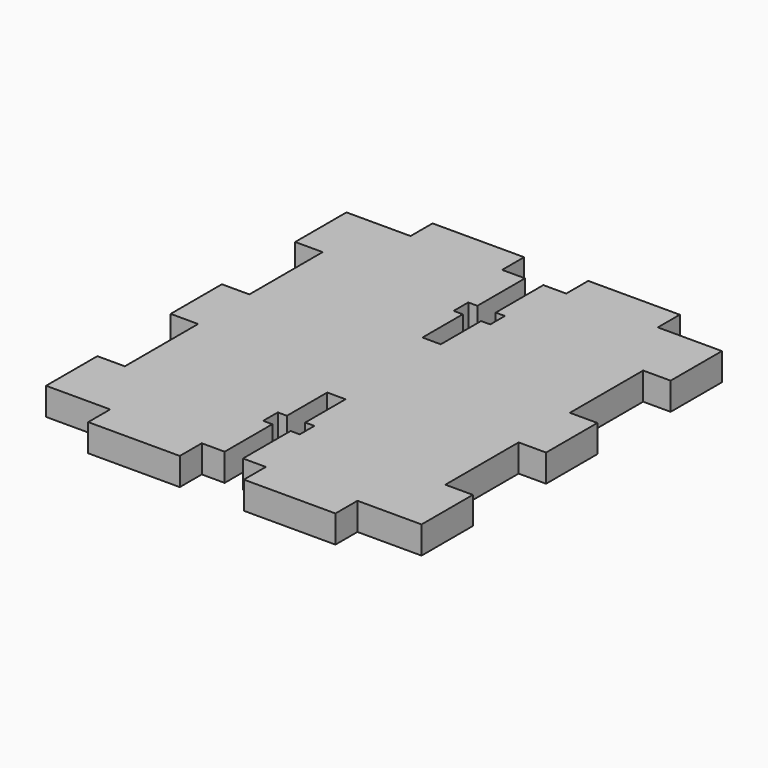
from build123d import *

# Parameters (mm, degrees)
F1_DEPTH = 3


with BuildPart() as f1:
    # F0 (on Top) → F1 (new body)
    with BuildSketch(Plane.XY):
        Polygon((0, 3), (0, 0), (10, 0), (10, 3), (12.5, 3), (12.5, 9.5), (11.5, 9.5), (11.5, 11.5), (12.5, 11.5), (12.5, 17), (14.5, 17), (14.5, 11.5), (15.5, 11.5), (15.5, 9.5), (14.5, 9.5), (14.5, 3), (17, 3), (17, 0), (27, 0), (27, 3), (34, 3), (34, 10), (31, 10), (31, 20), (34, 20), (34, 27), (31, 27), (31, 37), (34, 37), (34, 44), (27, 44), (27, 47), (17, 47), (17, 44), (14.5, 44), (14.5, 37.5), (15.5, 37.5), (15.5, 35.5), (14.5, 35.5), (14.5, 30), (12.5, 30), (12.5, 35.5), (11.5, 35.5), (11.5, 37.5), (12.5, 37.5), (12.5, 44), (10, 44), (10, 47), (0, 47), (0, 44), (-7, 44), (-7, 37), (-4, 37), (-4, 27), (-7, 27), (-7, 20), (-4, 20), (-4, 10), (-7, 10), (-7, 3), align=None)
    extrude(amount=F1_DEPTH)


solid = f1.part
